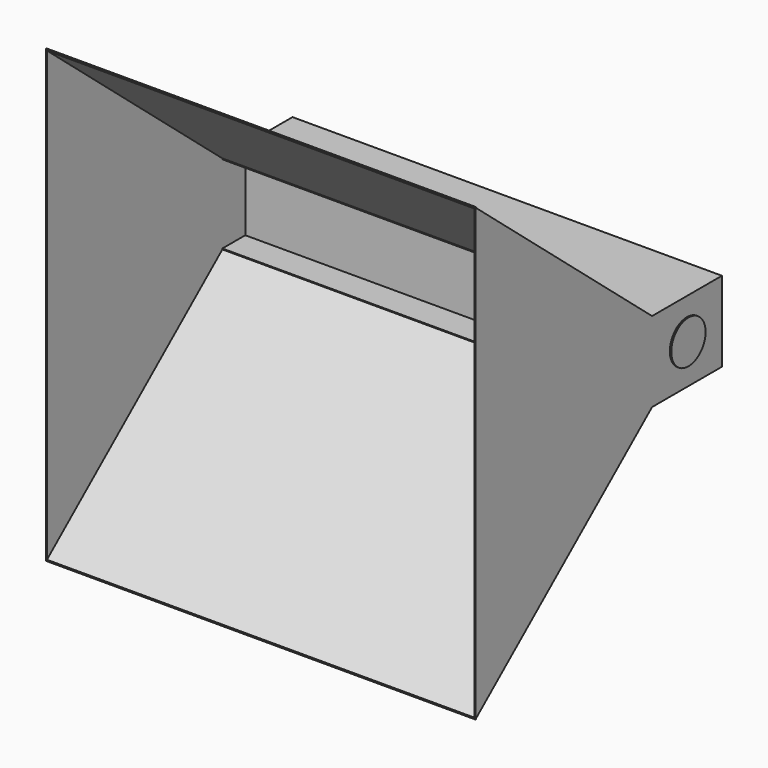
from build123d import *

# Parameters (mm, degrees)
F0_W      = 1500
F0_H      = 280
F1_DEPTH  = 210
F2_W      = 1500
F2_H      = 280
F2_W_2    = 1494
F2_H_2    = 274
F3_DEPTH  = 100
F5_DEPTH  = 1500
F6_R      = 75
F7_DEPTH  = 5
F8_R      = 75
F9_DEPTH  = 5
F11_DEPTH = 3
F13_DEPTH = 3


with BuildPart() as f1:
    # F0 (on Front) → F1 (new body)
    with BuildSketch(Plane.XZ):
        Rectangle(F0_W, F0_H)
    extrude(amount=-F1_DEPTH)

    # F2 (on face) → F3 (join)
    with BuildSketch(Plane.XZ):
        Rectangle(F2_W, F2_H)
        Rectangle(F2_W_2, F2_H_2, mode=Mode.SUBTRACT)
    extrude(amount=F3_DEPTH)

    # F4 (on face) → F5 (join)
    with BuildSketch(Plane.YZ.offset(750)):
        Polygon((-866.044443, 782.78761), (-100, 140), (-95.058616, 140), (-863.438088, 784.746932), (-863.438088, 787.488366), (-866.044443, 787.488366), align=None)
        Polygon((-95.058616, -140), (-100, -140), (-866.044443, -782.78761), (-866.044443, -787.488366), (-863.438088, -787.488366), (-863.438088, -784.746932), align=None)
    extrude(amount=-F5_DEPTH)

    # F6 (on face) → F7 (join)
    with BuildSketch(Plane.YZ.offset(750)):
        with Locations((57.470692, 0)):
            Circle(F6_R)
        with Locations((57.470692, 0)):
            Circle(F6_R)
    extrude(amount=F7_DEPTH)

    # F8 (on face) → F9 (join)
    with BuildSketch(Plane(origin=(-750, 0, 0), x_dir=(0, -1, 0), z_dir=(-1, 0, 0))):
        with Locations((-57.470692, 0)):
            Circle(F8_R)
    extrude(amount=F9_DEPTH)

    # F10 (on face) → F11 (join)
    with BuildSketch(Plane(origin=(-750, 0, 0), x_dir=(0, -1, 0), z_dir=(-1, 0, 0))):
        Polygon((866.044443, 787.488366), (863.438088, 787.488366), (863.438088, 784.746932), (95.058616, 140), (100, 140), (100, -140), (95.058616, -140), (863.438088, -784.746932), (863.438088, -787.488366), (866.044443, -787.488366), (866.044443, -782.78761), (866.044443, 782.78761), align=None)
        Polygon((866.044443, 787.488366), (863.438088, 787.488366), (863.438088, 784.746932), (95.058616, 140), (100, 140), (100, -140), (95.058616, -140), (863.438088, -784.746932), (863.438088, -787.488366), (866.044443, -787.488366), (866.044443, -782.78761), (866.044443, 782.78761), align=None)
        Polygon((866.044443, 787.488366), (863.438088, 787.488366), (863.438088, 784.746932), (95.058616, 140), (100, 140), (100, -140), (95.058616, -140), (863.438088, -784.746932), (863.438088, -787.488366), (866.044443, -787.488366), (866.044443, -782.78761), (866.044443, 782.78761), align=None)
    extrude(amount=-F11_DEPTH)

    # F12 (on face) → F13 (join)
    with BuildSketch(Plane.YZ.offset(750)):
        Polygon((-866.044443, -782.78761), (-866.044443, -787.488366), (-863.438088, -787.488366), (-863.438088, -784.746932), (-95.058616, -140), (-100, -140), (-100, 140), (-95.058616, 140), (-863.438088, 784.746932), (-863.438088, 787.488366), (-866.044443, 787.488366), (-866.044443, 782.78761), align=None)
        Polygon((-866.044443, -782.78761), (-866.044443, -787.488366), (-863.438088, -787.488366), (-863.438088, -784.746932), (-95.058616, -140), (-100, -140), (-100, 140), (-95.058616, 140), (-863.438088, 784.746932), (-863.438088, 787.488366), (-866.044443, 787.488366), (-866.044443, 782.78761), align=None)
    extrude(amount=-F13_DEPTH)


solid = f1.part
